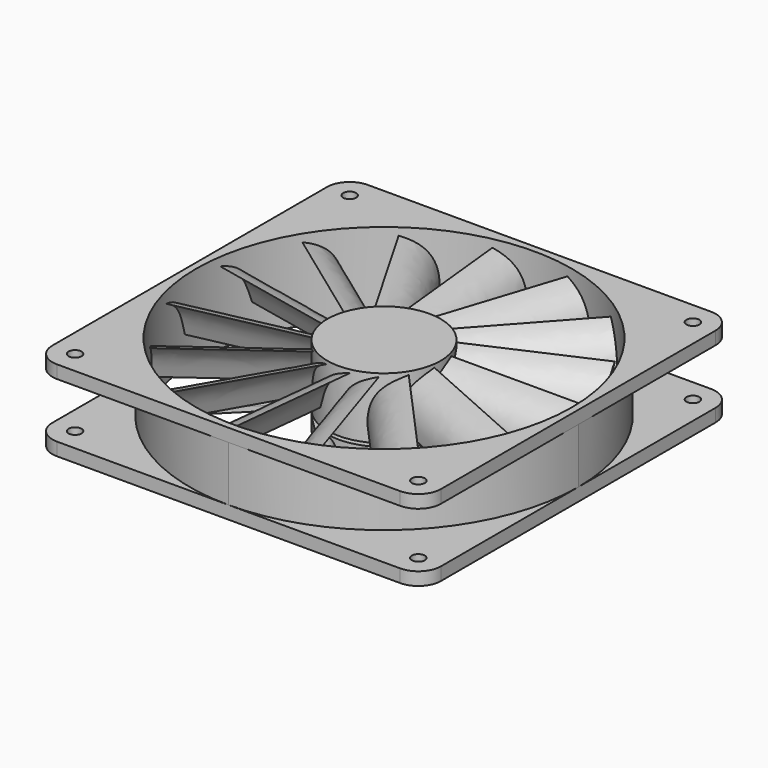
from build123d import *

# Parameters (mm, degrees)
F0_R      = 58
F1_DEPTH  = 25
F2_DEPTH  = 4
F4_DEPTH  = 4
F5_R      = 7
F6_R      = 2
F7_DEPTH  = 25
F9_DEPTH  = 4.5
F12_R     = 17.5
F13_DEPTH = 19
F15_DEPTH = 56.25
F16_COUNT = 15
F16_ANGLE = 336
F10_R     = 10
F17_DEPTH = 5
F18_R     = 3


with BuildPart() as f1:
    # F0 (on Top) → F1 (new body)
    with BuildSketch(Plane.XY):
        with BuildLine():
            ThreePointArc((60, 0), (42.426407, 42.426407), (0, 60))
            ThreePointArc((0, 60), (-42.426407, 42.426407), (-60, 0))
            ThreePointArc((-60, 0), (-42.426407, -42.426407), (0, -60))
            ThreePointArc((0, -60), (42.426407, -42.426407), (60, 0))
        make_face()
        Circle(F0_R, mode=Mode.SUBTRACT)
    extrude(amount=F1_DEPTH)

    # F0 (on Top) → F2 (join)
    with BuildSketch(Plane.XY):
        with BuildLine():
            Line((0, 60), (-60, 60))
            Line((-60, 60), (-60, 0))
            ThreePointArc((-60, 0), (-42.426407, 42.426407), (0, 60))
        make_face()
        with BuildLine():
            Line((60, 60), (0, 60))
            ThreePointArc((0, 60), (42.426407, 42.426407), (60, 0))
            Line((60, 0), (60, 60))
        make_face()
        with BuildLine():
            Line((60, -60), (60, 0))
            ThreePointArc((60, 0), (42.426407, -42.426407), (0, -60))
            Line((0, -60), (60, -60))
        make_face()
        with BuildLine():
            ThreePointArc((0, -60), (-42.426407, -42.426407), (-60, 0))
            Line((-60, 0), (-60, -60))
            Line((-60, -60), (0, -60))
        make_face()
    extrude(amount=F2_DEPTH)

    # F3 (on face) → F4 (join)
    with BuildSketch(Plane.XY.offset(25)):
        with BuildLine():
            ThreePointArc((60, 0), (42.426407, -42.426407), (0, -60))
            Line((0, -60), (60, -60))
            Line((60, -60), (60, 0))
        make_face()
        with BuildLine():
            ThreePointArc((1e-06, 60), (42.426407, 42.426407), (60, 0))
            Line((60, 0), (60, 60))
            Line((60, 60), (1e-06, 60))
        make_face()
        with BuildLine():
            Line((-60, 0), (-60, -60))
            Line((-60, -60), (0, -60))
            ThreePointArc((0, -60), (-42.426407, -42.426407), (-60, 0))
        make_face()
        with BuildLine():
            Line((-60, 60), (-60, 0))
            ThreePointArc((-60, 0), (-42.426407, 42.426407), (1e-06, 60))
            Line((1e-06, 60), (-60, 60))
        make_face()
    extrude(amount=-F4_DEPTH)

    # F5
    f5_edges = [f1.edges().sort_by_distance(p)[0] for p in [
        (-60, -60, 23),
        (-60, -60, 2),
        (-60, 60, 23),
        (-60, 60, 2),
        (60, 60, 2),
        (60, 60, 23),
        (60, -60, 23),
        (60, -60, 2),
    ]]
    fillet(f5_edges, radius=F5_R)

    # F6 (on face) → F7 (cut)
    with BuildSketch(Plane.XY):
        with Locations((-53, 53)):
            Circle(F6_R)
        with Locations((-53, -53)):
            Circle(F6_R)
        with Locations((53, 53)):
            Circle(F6_R)
        with Locations((53, -53)):
            Circle(F6_R)
    extrude(amount=F7_DEPTH, mode=Mode.SUBTRACT)

    # F8 (on Top) → F9 (join)
    with BuildSketch(Plane.XY):
        with BuildLine():
            ThreePointArc((0.908367, 17.476409), (7.114455, 15.988575), (12.374369, 12.374369))
            Line((12.374369, 12.374369), (-26.726463, 51.4752))
            ThreePointArc((-26.726463, 51.4752), (-28.774678, 50.358891), (-30.77635, 49.161126))
            Line((-30.77635, 49.161126), (0.908367, 17.476409))
        make_face()
        with BuildLine():
            ThreePointArc((-17.476409, 0.908367), (-15.988575, 7.114455), (-12.374369, 12.374369))
            Line((-12.374369, 12.374369), (-51.4752, -26.726463))
            ThreePointArc((-51.4752, -26.726463), (-50.358891, -28.774678), (-49.161126, -30.77635))
            Line((-49.161126, -30.77635), (-17.476409, 0.908367))
        make_face()
        with BuildLine():
            ThreePointArc((17.476409, -0.908367), (17.494101, -0.454337), (17.5, 0))
            ThreePointArc((17.5, 0), (16.167892, 6.69696), (12.374369, 12.374369))
            ThreePointArc((12.374369, 12.374369), (7.114455, 15.988575), (0.908367, 17.476409))
            ThreePointArc((0.908367, 17.476409), (-6.27495, 16.336309), (-12.374369, 12.374369))
            ThreePointArc((-12.374369, 12.374369), (-15.988575, 7.114455), (-17.476409, 0.908367))
            ThreePointArc((-17.476409, 0.908367), (-16.336309, -6.27495), (-12.374369, -12.374369))
            ThreePointArc((-12.374369, -12.374369), (-7.114455, -15.988575), (-0.908367, -17.476409))
            ThreePointArc((-0.908367, -17.476409), (6.27495, -16.336309), (12.374369, -12.374369))
            ThreePointArc((12.374369, -12.374369), (15.988575, -7.114455), (17.476409, -0.908367))
        make_face()
        with BuildLine():
            Line((49.161126, 30.77635), (17.476409, -0.908367))
            ThreePointArc((17.476409, -0.908367), (15.988575, -7.114455), (12.374369, -12.374369))
            Line((12.374369, -12.374369), (51.4752, 26.726463))
            ThreePointArc((51.4752, 26.726463), (50.358891, 28.774678), (49.161126, 30.77635))
        make_face()
        with BuildLine():
            Line((30.77635, -49.161126), (-0.908367, -17.476409))
            ThreePointArc((-0.908367, -17.476409), (-7.114455, -15.988575), (-12.374369, -12.374369))
            Line((-12.374369, -12.374369), (26.726463, -51.4752))
            ThreePointArc((26.726463, -51.4752), (28.774678, -50.358891), (30.77635, -49.161126))
        make_face()
    extrude(amount=F9_DEPTH)



with BuildPart() as f13:
    # F12 (on offset) → F13 (new body)
    with BuildSketch(Plane.XY.offset(5.5)):
        Circle(F12_R)
    extrude(amount=F13_DEPTH)

    # F14 (on Right) → F15 (join)
    with BuildSketch(Plane.YZ):
        with BuildLine():
            add(Edge.make_bspline(
                [(5, 23.5), (-1.562016, 20.166056), (-2.602666, 17.684504), (-5, 10.5)],
                knots=[0, 0, 0, 0, 16.401219, 16.401219, 16.401219, 16.401219], degree=3))
            add(Edge.make_bspline(
                [(5, 23.5), (0, 22.247357), (-5.084218, 19.603202), (-5, 10.5)],
                knots=[0, 0, 0, 0, 16.401219, 16.401219, 16.401219, 16.401219], degree=3))
        make_face()
    extrude(amount=F15_DEPTH)

    # F16: F13 ×15 about axis
    f16_axis = Axis((0, 0, 5.5), (0, 0, 1))


with BuildPart() as f13_1:
    add(f13.part)
    for i in range(1, F16_COUNT):
        add(f13.part.rotate(f16_axis, i * F16_ANGLE / (F16_COUNT - 1)))


with BuildPart() as f1_1:
    add(f1.part)

    add(f13_1.part)  # F17 merges F13
    # F10 (on face) → F17 (join)
    with BuildSketch(Plane.XY.offset(4.5)):
        Circle(F10_R)
    extrude(amount=F17_DEPTH)

    # F18
    f18_edges = [f1_1.edges().sort_by_distance(p)[0] for p in [
        (-14.933991, 33.318767, 4.5),
        (-33.318767, -14.933991, 4.5),
        (14.933991, -33.318767, 4.5),
        (33.318767, 14.933991, 4.5),
    ]]
    fillet(f18_edges, radius=F18_R)


solid = f1_1.part
